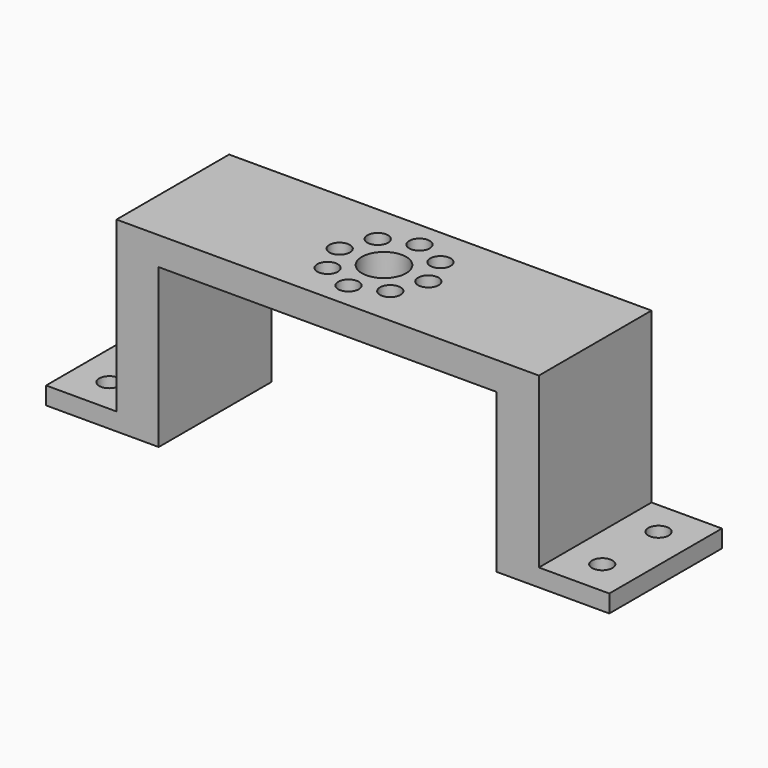
from build123d import *

# Parameters (mm, degrees)
F0_W     = 76.2
F0_H     = 25.4
F0_R     = 1.85
F0_R_2   = 4
F1_DEPTH = 5.08
F2_W     = 7.62
F2_H     = 25.4
F3_DEPTH = 25.4
F4_W     = 12.7
F4_H     = 25.4
F4_R     = 1.85
F4_W_2   = 7.62
F4_W_3   = 20.32
F5_DEPTH = 3.175


with BuildPart() as f1:
    # F0 (on Top) → F1 (new body)
    with BuildSketch(Plane.XY):
        Rectangle(F0_W, F0_H)
        with Locations((-5.656854, -5.656854)):
            Circle(F0_R, mode=Mode.SUBTRACT)
        with Locations((-8, 0)):
            Circle(F0_R, mode=Mode.SUBTRACT)
        with Locations((0, -8)):
            Circle(F0_R, mode=Mode.SUBTRACT)
        with Locations((5.656854, -5.656854)):
            Circle(F0_R, mode=Mode.SUBTRACT)
        Circle(F0_R_2, mode=Mode.SUBTRACT)
        with Locations((8, 0)):
            Circle(F0_R, mode=Mode.SUBTRACT)
        with Locations((-5.656854, 5.656854)):
            Circle(F0_R, mode=Mode.SUBTRACT)
        with Locations((5.656854, 5.656854)):
            Circle(F0_R, mode=Mode.SUBTRACT)
        with Locations((0, 8)):
            Circle(F0_R, mode=Mode.SUBTRACT)
    extrude(amount=F1_DEPTH)

    # F2 (on face) → F3 (join)
    with BuildSketch(Plane(origin=(0, 0, 0), x_dir=(1, 0, 0), z_dir=(0, 0, -1))):
        with Locations((34.29, 0)):
            Rectangle(F2_W, F2_H)
        with Locations((-34.29, 0)):
            Rectangle(F2_W, F2_H)
    extrude(amount=F3_DEPTH)

    # F4 (on face) → F5 (join)
    with BuildSketch(Plane(origin=(0, 0, -25.4), x_dir=(1, 0, 0), z_dir=(0, 0, -1))):
        with Locations((-44.45, 0)):
            Rectangle(F4_W, F4_H)
        with Locations((-44.45, -6.35)):
            Circle(F4_R, mode=Mode.SUBTRACT)
        with Locations((-44.45, 6.35)):
            Circle(F4_R, mode=Mode.SUBTRACT)
        with Locations((-34.29, 0)):
            Rectangle(F4_W_2, F4_H)
        with Locations((40.64, 0)):
            Rectangle(F4_W_3, F4_H)
        with Locations((44.45, -6.35)):
            Circle(F4_R, mode=Mode.SUBTRACT)
        with Locations((44.45, 6.35)):
            Circle(F4_R, mode=Mode.SUBTRACT)
    extrude(amount=F5_DEPTH)


solid = f1.part
